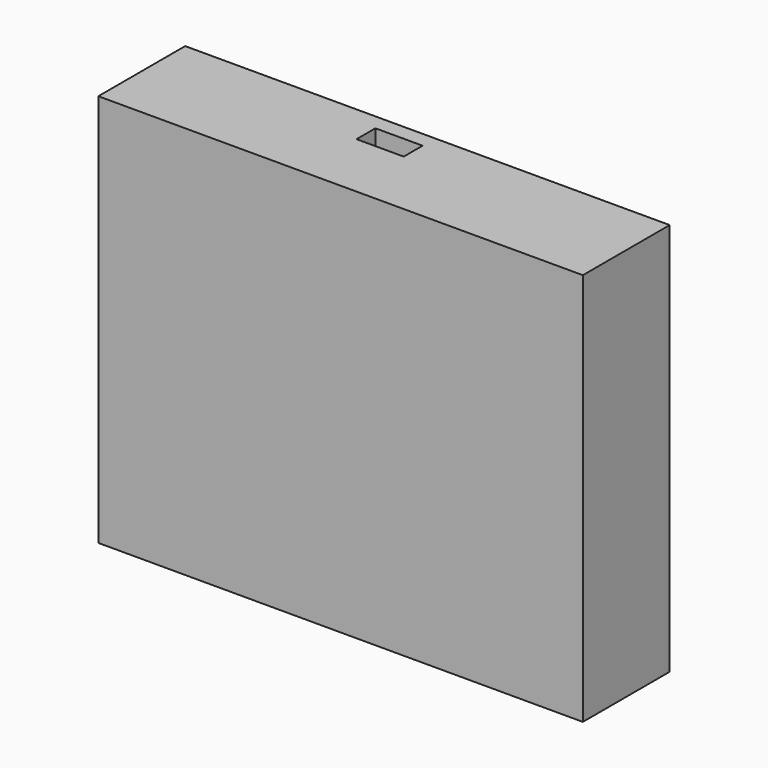
from build123d import *

# Parameters (mm, degrees)
F0_W     = 0.9
F0_H     = 1.7
F1_DEPTH = 48
F0_W_2   = 6
F0_H_2   = 3
F2_DEPTH = 2
F3_R     = 0.5


with BuildPart() as f1:
    # F0 (on Top) → F1 (new body)
    with BuildSketch(Plane.XY):
        Polygon((-26.985715, 13.8), (-28.785715, 13.8), (-28.785715, 0), (32.814285, 0), (32.814285, 13.8), (31.014285, 13.8), (31.014285, 12.7), (31.014285, 11), (31.014285, 1.8), (-26.985715, 1.8), (-26.985715, 11), (-26.985715, 12.7), align=None)
        with Locations((-26.535715, 11.85)):
            Rectangle(F0_W, F0_H)
        with Locations((30.564285, 11.85)):
            Rectangle(F0_W, F0_H)
    extrude(amount=-F1_DEPTH)

    # F0 (on Top) → F2 (join)
    with BuildSketch(Plane.XY):
        Polygon((31.014285, 13.8), (-26.985715, 13.8), (-26.985715, 12.7), (-26.085715, 12.7), (-26.085715, 11), (-26.985715, 11), (-26.985715, 1.8), (31.014285, 1.8), (31.014285, 11), (30.114285, 11), (30.114285, 12.7), (31.014285, 12.7), align=None)
        with Locations((0, 10.3)):
            Rectangle(F0_W_2, F0_H_2, mode=Mode.SUBTRACT)
        Polygon((-26.985715, 13.8), (-28.785715, 13.8), (-28.785715, 0), (32.814285, 0), (32.814285, 13.8), (31.014285, 13.8), (31.014285, 12.7), (31.014285, 11), (31.014285, 1.8), (-26.985715, 1.8), (-26.985715, 11), (-26.985715, 12.7), align=None)
        with Locations((-26.535715, 11.85)):
            Rectangle(F0_W, F0_H)
        with Locations((30.564285, 11.85)):
            Rectangle(F0_W, F0_H)
    extrude(amount=F2_DEPTH)

    # F3
    f3_edges = [f1.edges().sort_by_distance(p)[0] for p in [
        (-26.535715, 11, -48),
        (-26.535715, 12.7, -48),
        (-26.085715, 11.85, -48),
        (30.564285, 11, -48),
        (30.564285, 12.7, -48),
        (30.114285, 11.85, -48),
    ]]
    fillet(f3_edges, radius=F3_R)


solid = f1.part
